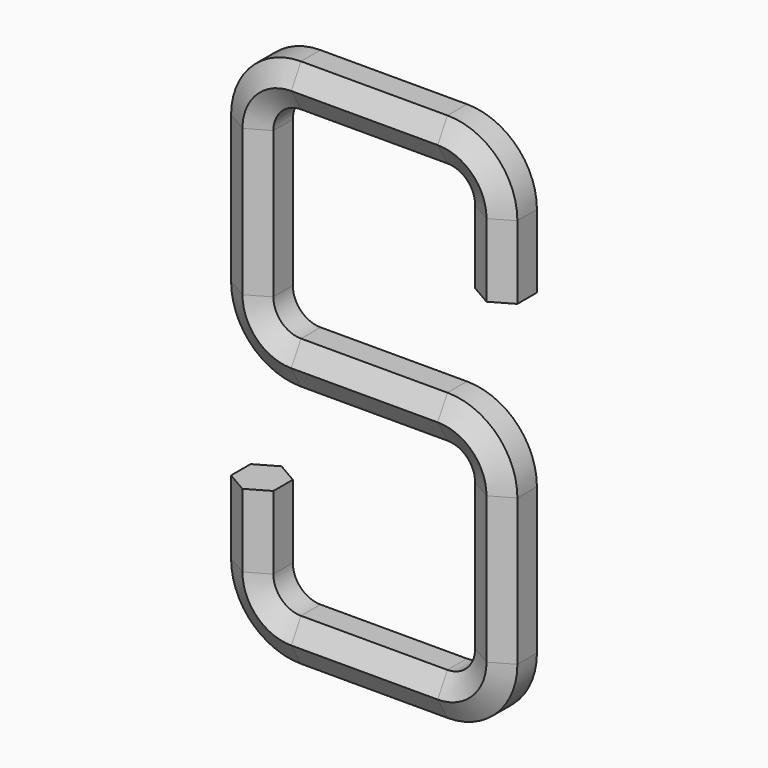
from build123d import *


with BuildPart() as f2:
    # F2: sweep along a path in F0
    with BuildLine(Plane.XZ) as f2_path:
        Line((0, 0), (0, 30))
        ThreePointArc((0, 30), (-5.857864, 44.142136), (-20, 50))
        Line((-20, 50), (-80, 50))
        ThreePointArc((-80, 50), (-94.142136, 44.142136), (-100, 30))
        Line((-100, 30), (-100, -30))
        ThreePointArc((-100, -30), (-94.142136, -44.142136), (-80, -50))
        Line((-80, -50), (-20, -50))
        ThreePointArc((-20, -50), (-5.857864, -55.857864), (0, -70))
        Line((0, -70), (0, -130))
        ThreePointArc((0, -130), (-5.857864, -144.142136), (-20, -150))
        Line((-20, -150), (-80, -150))
        ThreePointArc((-80, -150), (-94.142136, -144.142136), (-100, -130))
        Line((-100, -130), (-100, -100))
    # F1 (on Top) → F2 (sweep)
    with BuildSketch(Plane.XY):
        Polygon((8.660254, -5), (8.660254, 5), (0, 10), (-8.660254, 5), (-8.660254, -5), (0, -10), align=None)
    sweep(path=f2_path.line)


solid = f2.part
